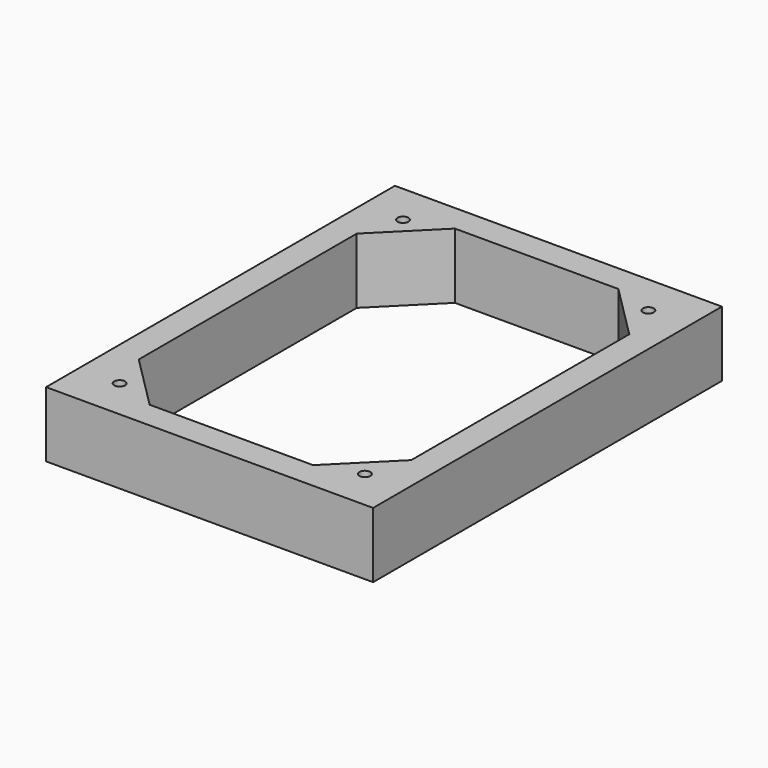
from build123d import *

# Parameters (mm, degrees)
F0_W     = 150
F0_H     = 200
F0_W_2   = 137.5
F0_H_2   = 187.5
F0_R     = 5
F0_R_2   = 2.5
F1_DEPTH = 30


with BuildPart() as f1:
    # F0 (on Top) → F1 (new body)
    with BuildSketch(Plane.XY):
        with Locations((-0.0686573694, 0)):
            Rectangle(F0_W, F0_H)
        with Locations((-0.0686573694, 0)):
            Rectangle(F0_W_2, F0_H_2, mode=Mode.SUBTRACT)
        with Locations((-0.0686573694, 0)):
            Rectangle(F0_W_2, F0_H_2)
        Polygon((-62.5686573694, 62.5), (-62.5686573694, 87.5), (-37.5686573694, 87.5), (37.4313426306, 87.5), (62.4313426306, 87.5), (62.4313426306, 62.5), (62.4313426306, -62.5), (62.4313426306, -87.5), (37.4313426306, -87.5), (-37.5686573694, -87.5), (-62.5686573694, -87.5), (-62.5686573694, -62.5), align=None, mode=Mode.SUBTRACT)
        Polygon((-37.5686573694, 87.5), (-62.5686573694, 87.5), (-62.5686573694, 62.5), align=None)
        with Locations((-56.3186573694, 81.25)):
            Circle(F0_R, mode=Mode.SUBTRACT)
        Polygon((62.4313426306, 87.5), (37.4313426306, 87.5), (62.4313426306, 62.5), align=None)
        with Locations((56.1813426306, 81.25)):
            Circle(F0_R, mode=Mode.SUBTRACT)
        Polygon((62.4313426306, -87.5), (62.4313426306, -62.5), (37.4313426306, -87.5), align=None)
        with Locations((56.1813426306, -81.25)):
            Circle(F0_R, mode=Mode.SUBTRACT)
        Polygon((-37.5686573694, -87.5), (-62.5686573694, -62.5), (-62.5686573694, -87.5), align=None)
        with Locations((-56.3186573694, -81.25)):
            Circle(F0_R, mode=Mode.SUBTRACT)
        with Locations((-56.3186573694, 81.25)):
            Circle(F0_R)
        with Locations((-56.3186573694, 81.25)):
            Circle(F0_R_2, mode=Mode.SUBTRACT)
        with Locations((56.1813426306, 81.25)):
            Circle(F0_R)
        with Locations((56.1813426306, 81.25)):
            Circle(F0_R_2, mode=Mode.SUBTRACT)
        with Locations((56.1813426306, -81.25)):
            Circle(F0_R)
        with Locations((56.1813426306, -81.25)):
            Circle(F0_R_2, mode=Mode.SUBTRACT)
        with Locations((-56.3186573694, -81.25)):
            Circle(F0_R)
        with Locations((-56.3186573694, -81.25)):
            Circle(F0_R_2, mode=Mode.SUBTRACT)
    extrude(amount=F1_DEPTH)


solid = f1.part
